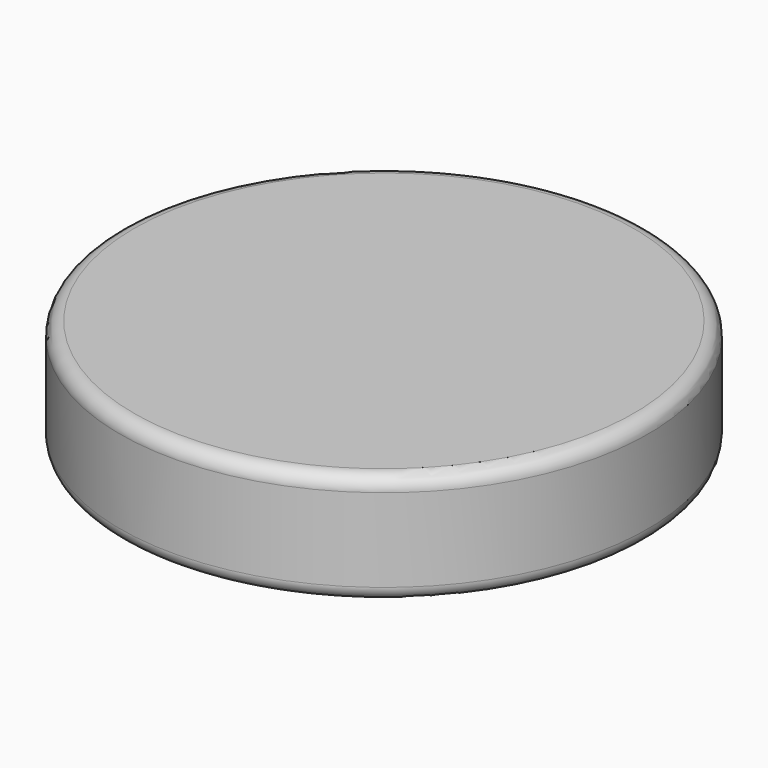
from build123d import *

# Parameters (mm, degrees)
CYLINDER007_R             = 9.5
CYLINDER007_DEPTH         = 2
FILLET007_R               = 0.5
CYLINDER006_R             = 9.5
CYLINDER006_DEPTH         = 2
FILLET006_R               = 0.5
FUSION005_PLACEMENT_ANGLE = 180


with BuildPart() as fillet007:
    # Cylinder007 → Cylinder007 (new body)
    with BuildSketch(Plane.XY.offset(12)):
        Circle(CYLINDER007_R)
    extrude(amount=CYLINDER007_DEPTH)

    # Fillet007
    fillet007_edges = [fillet007.edges().sort_by_distance(p)[0] for p in [
        (-9.5, 0, 14),
    ]]
    fillet(fillet007_edges, radius=FILLET007_R)


with BuildPart() as disc003:
    # Cylinder006 → Cylinder006 (new body)
    with BuildSketch(Plane.XY.offset(11)):
        Circle(CYLINDER006_R)
    extrude(amount=CYLINDER006_DEPTH)

    # Fillet006
    fillet006_edges = [disc003.edges().sort_by_distance(p)[0] for p in [
        (-9.5, 0, 11),
    ]]
    fillet(fillet006_edges, radius=FILLET006_R)


with BuildPart() as disc003_1:
    # Fillet006 placement: moved
    add(disc003.part.moved(Location((0, 0, -1))))

    # Fusion005: union Fillet007
    add(fillet007.part)


with BuildPart() as disc003_2:
    # Fusion005 placement: moved
    add(disc003_1.part.moved(Location((-17, -17, 24))).rotate(Axis((-17, -17, 24), (0, 1, 0)), FUSION005_PLACEMENT_ANGLE))


solid = disc003_2.part
